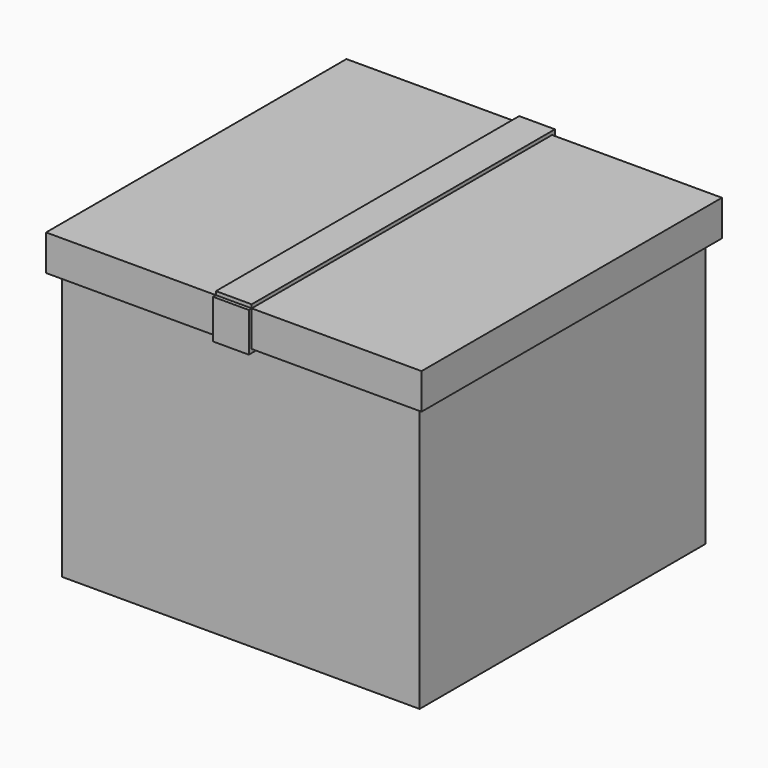
from build123d import *

# Parameters (mm, degrees)
F0_W      = 100
F0_H      = 100
F1_DEPTH  = 75
F2_W      = 52.5
F2_H      = 52.5
F3_DEPTH  = 10
F4_W      = 5
F4_H      = 52.5
F5_DEPTH  = 1
F6_W      = 10
F6_H      = 10
F7_DEPTH  = 1
F8_W      = 10
F8_H      = 11
F9_DEPTH  = 1
F10_W     = 10
F10_H     = 3.468894
F11_DEPTH = 1
F12_W     = 10
F12_H     = 3.531106
F13_DEPTH = 1


with BuildPart() as f1:
    # F0 (on Top) → F1 (new body)
    with BuildSketch(Plane.XY):
        with Locations((-0.019781, -0.031106)):
            Rectangle(F0_W, F0_H)
        with Locations((-0.019781, -0.031106)):
            Rectangle(F0_W, F0_H)
    extrude(amount=F1_DEPTH)

    # F2 (on face) → F3 (join)
    with BuildSketch(Plane.XY.offset(75)):
        with Locations((26.25, 26.25)):
            Rectangle(F2_W, F2_H)
        with Locations((-26.25, 26.25)):
            Rectangle(F2_W, F2_H)
        with Locations((26.25, -26.25)):
            Rectangle(F2_W, F2_H)
        with Locations((-26.25, -26.25)):
            Rectangle(F2_W, F2_H)
    extrude(amount=F3_DEPTH)

    # F4 (on face) → F5 (join)
    with BuildSketch(Plane.XY.offset(85)):
        with Locations((-2.5, -26.25)):
            Rectangle(F4_W, F4_H)
        with Locations((-2.5, 26.25)):
            Rectangle(F4_W, F4_H)
        with Locations((2.5, -26.25)):
            Rectangle(F4_W, F4_H)
        with Locations((2.5, 26.25)):
            Rectangle(F4_W, F4_H)
    extrude(amount=F5_DEPTH)

    # F6 (on face) → F7 (join)
    with BuildSketch(Plane.XZ.offset(52.5)):
        with Locations((0, 80)):
            Rectangle(F6_W, F6_H)
    extrude(amount=F7_DEPTH)

    # F8 (on face) → F9 (join)
    with BuildSketch(Plane(origin=(0, 52.5, 0), x_dir=(-1, 0, 0), z_dir=(0, 1, 0))):
        with Locations((0, 80.5)):
            Rectangle(F8_W, F8_H)
    extrude(amount=F9_DEPTH)

    # F10 (on face) → F11 (join)
    with BuildSketch(Plane(origin=(0, 0, 75), x_dir=(1, 0, 0), z_dir=(0, 0, -1))):
        with Locations((0, 51.765553)):
            Rectangle(F10_W, F10_H)
    extrude(amount=F11_DEPTH)

    # F12 (on face) → F13 (join)
    with BuildSketch(Plane(origin=(0, 0, 75), x_dir=(1, 0, 0), z_dir=(0, 0, -1))):
        with Locations((0, -51.734447)):
            Rectangle(F12_W, F12_H)
    extrude(amount=F13_DEPTH)


solid = f1.part
